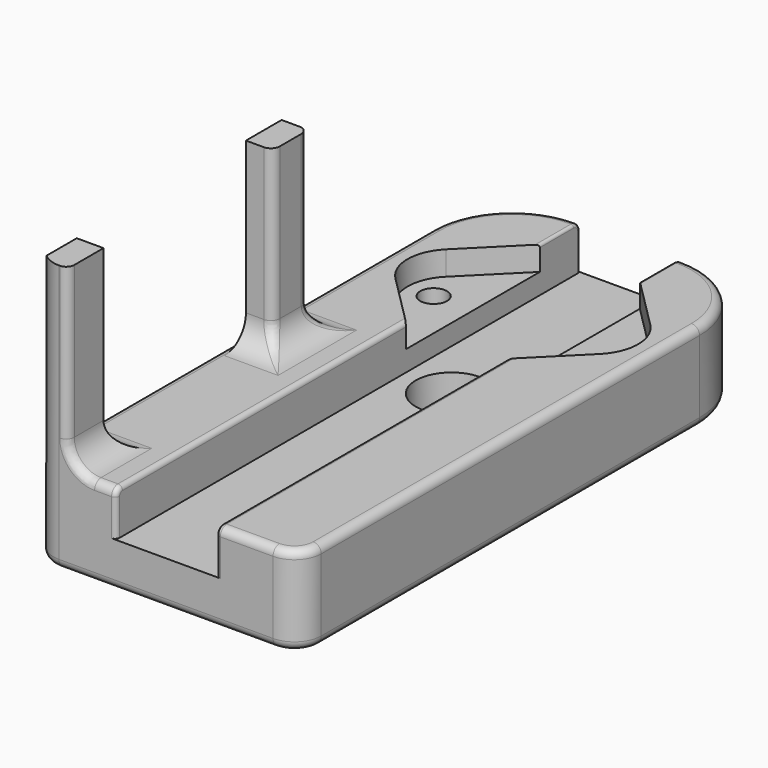
from build123d import *

# Parameters (mm, degrees)
SKETCH010_R             = 4
SKETCH010_R_2           = 1.5
PAD_DEPTH               = 10
POCKET003_DEPTH         = 5
POCKET004_DEPTH         = 2.7
PAD010_DEPTH            = 20
FILLET001_R             = 9
FILLET002_R             = 3
FILLET003_R             = 3
FILLET004_R             = 0.9
CHAMFER_SIZE            = 2
FILLET005_R             = 0.9
FILLET006_R             = 1
FILLET007_R             = 0.5
FILLET008_R             = 0.3
FILLET009_R             = 1
BODY001_PLACEMENT_ANGLE = 45


with BuildPart() as part:
    # Sketch010 → Pad (new body)
    with BuildSketch(Plane.XY):
        Polygon((-45.961941, -24.748737), (0, 21.213203), (21.213203, 0), (-24.748737, -45.961941), align=None)
        with Locations((-7.071068, -7.071068)):
            Circle(SKETCH010_R, mode=Mode.SUBTRACT)
        with Locations((-7.071068, 7.071068)):
            Circle(SKETCH010_R_2, mode=Mode.SUBTRACT)
        with Locations((7.071068, -7.071068)):
            Circle(SKETCH010_R_2, mode=Mode.SUBTRACT)
    extrude(amount=PAD_DEPTH)

    # Sketch011 → Pocket003 (cut)
    with BuildSketch(Plane.XY.offset(10)):
        Polygon((-47.335856, -39.41626), (26.386553, 34.306149), (34.306149, 26.386553), (-39.41626, -47.335856), align=None)
    extrude(amount=-POCKET003_DEPTH, mode=Mode.SUBTRACT)

    # Sketch017 → Pocket004 (cut)
    with BuildSketch(Plane.XY.offset(10)):
        with BuildLine():
            ThreePointArc((-5.6, 10.6), (-9.135534, 9.135534), (-10.6, 5.6))
            Line((-10.6, 5.6), (-10.6, -5.6))
            ThreePointArc((-10.6, -5.6), (-9.135534, -9.135534), (-5.6, -10.6))
            Line((-5.6, -10.6), (5.6, -10.6))
            ThreePointArc((5.6, -10.6), (9.135534, -9.135534), (10.6, -5.6))
            Line((10.6, -5.6), (10.6, 5.6))
            ThreePointArc((10.6, 5.6), (9.135534, 9.135534), (5.6, 10.6))
            Line((5.6, 10.6), (-5.6, 10.6))
        make_face()
    extrude(amount=-POCKET004_DEPTH, mode=Mode.SUBTRACT)

    # Sketch023 → Pad010 (join)
    with BuildSketch(Plane.XY.offset(10)):
        Polygon((-41.7193, -21.92031), (-39.59798, -24.041631), (-43.133514, -27.577164), (-45.254834, -25.455844), align=None)
        Polygon((-24.960869, -5.16188), (-22.839549, -7.2832), (-19.304015, -3.747666), (-21.425335, -1.626346), align=None)
    extrude(amount=PAD010_DEPTH)

    # Fillet001
    fillet001_edges = [part.edges().sort_by_distance(p)[0] for p in [
        (0, 21.213203, 5),
        (21.213203, 0, 5),
    ]]
    fillet(fillet001_edges, radius=FILLET001_R)

    # Fillet002
    fillet002_edges = [part.edges().sort_by_distance(p)[0] for p in [
        (-45.961941, -24.748737, 5),
        (-24.748737, -45.961941, 5),
    ]]
    fillet(fillet002_edges, radius=FILLET002_R)

    # Fillet003
    fillet003_edges = [part.edges().sort_by_distance(p)[0] for p in [
        (-41.365747, -25.809398, 10),
        (-21.071782, -5.515433, 10),
        (-40.65864, -22.98097, 10),
        (-20.364675, -2.687006, 10),
        (-23.900209, -6.22254, 10),
    ]]
    fillet(fillet003_edges, radius=FILLET003_R)

    # Fillet004
    fillet004_edges = [part.edges().sort_by_distance(p)[0] for p in [
        (-25.102291, -3.889087, 10),
        (-3.889087, -25.102291, 10),
    ]]
    fillet(fillet004_edges, radius=FILLET004_R)

    # Chamfer
    chamfer_edges = [part.edges().sort_by_distance(p)[0] for p in [
        (5.571068, -7.071068, 0),
        (-8.571068, 7.071068, 0),
    ]]
    chamfer(chamfer_edges, length=CHAMFER_SIZE)

    # Fillet005
    fillet005_edges = [part.edges().sort_by_distance(p)[0] for p in [
        (-40.163665, -30.547013, 10),
    ]]
    fillet(fillet005_edges, radius=FILLET005_R)

    # Fillet006
    fillet006_edges = [part.edges().sort_by_distance(p)[0] for p in [
        (-22.839549, -7.2832, 21.5),
        (-19.304015, -3.747666, 21.5),
    ]]
    fillet(fillet006_edges, radius=FILLET006_R)

    # Fillet007
    fillet007_edges = [part.edges().sort_by_distance(p)[0] for p in [
        (-39.315137, -31.395541, 7.05),
        (-31.395541, -39.315137, 7.05),
    ]]
    fillet(fillet007_edges, radius=FILLET007_R)

    # Fillet008
    fillet008_edges = [part.edges().sort_by_distance(p)[0] for p in [
        (6.646804, 14.5664, 7.05),
        (14.5664, 6.646804, 7.05),
    ]]
    fillet(fillet008_edges, radius=FILLET008_R)

    # Fillet009
    fillet009_edges = [part.edges().sort_by_distance(p)[0] for p in [
        (-25.102291, -3.889087, 0),
    ]]
    fillet(fillet009_edges, radius=FILLET009_R)


with BuildPart() as part_1:
    # Body001 placement: moved
    add(part.part.moved(Location((-4.949747, 51.618795, -12))).rotate(Axis((-4.949747, 51.618795, -12), (0, 0, 1)), BODY001_PLACEMENT_ANGLE))


solid = part_1.part
